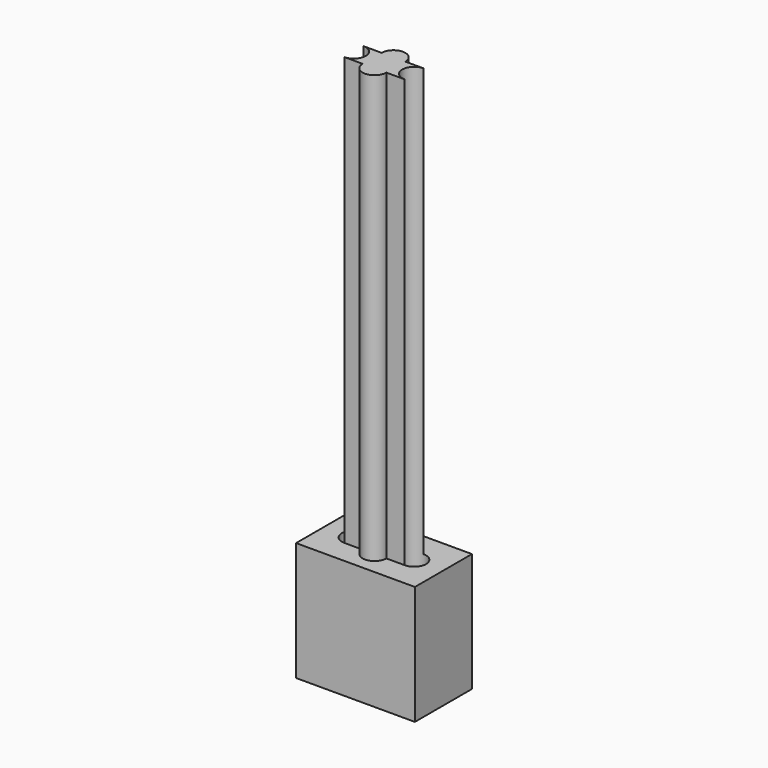
from build123d import *

# Parameters (mm, degrees)
F0_W     = 5
F0_H     = 3
F1_DEPTH = 5
F2_DEPTH = 23


with BuildPart() as f1:
    # F0 (on Top) → F1 (new body)
    with BuildSketch(Plane.XY):
        Rectangle(F0_W, F0_H)
        with BuildLine():
            ThreePointArc((-0.5, 0.5), (0, 1), (0.5, 0.5))
            Line((0.5, 0.5), (1.27, 0.5))
            ThreePointArc((1.27, 0.5), (1.6235533906, 0.3535533906), (1.77, 0))
            ThreePointArc((1.77, 0), (1.6235533906, -0.3535533906), (1.27, -0.5))
            Line((1.27, -0.5), (0.5, -0.5))
            ThreePointArc((0.5, -0.5), (0, -1), (-0.5, -0.5))
            Line((-0.5, -0.5), (-1.27, -0.5))
            ThreePointArc((-1.27, -0.5), (-1.77, 0), (-1.27, 0.5))
            Line((-1.27, 0.5), (-0.5, 0.5))
        make_face(mode=Mode.SUBTRACT)
        with BuildLine():
            Line((-0.5, 0.5), (0.5, 0.5))
            ThreePointArc((0.5, 0.5), (0, 1), (-0.5, 0.5))
        make_face()
        with BuildLine():
            ThreePointArc((-0.5, 0.5), (-0.3535533906, 0.1464466094), (0, 0))
            ThreePointArc((0, 0), (0.3535533906, 0.1464466094), (0.5, 0.5))
            Line((0.5, 0.5), (-0.5, 0.5))
        make_face()
        with BuildLine():
            ThreePointArc((0.5, -0.5), (0.3535533906, -0.1464466094), (0, 0))
            ThreePointArc((0, 0), (-0.3535533906, -0.1464466094), (-0.5, -0.5))
            Line((-0.5, -0.5), (0.5, -0.5))
        make_face()
        with BuildLine():
            ThreePointArc((-0.5, -0.5), (0, -1), (0.5, -0.5))
            Line((0.5, -0.5), (-0.5, -0.5))
        make_face()
        with BuildLine():
            ThreePointArc((-0.5, -0.5), (-0.3535533906, -0.1464466094), (0, 0))
            ThreePointArc((0, 0), (-0.3535533906, 0.1464466094), (-0.5, 0.5))
            Line((-0.5, 0.5), (-1.27, 0.5))
            ThreePointArc((-1.27, 0.5), (-0.9164466094, 0.3535533906), (-0.77, 0))
            ThreePointArc((-0.77, 0), (-0.9164466094, -0.3535533906), (-1.27, -0.5))
            Line((-1.27, -0.5), (-0.5, -0.5))
        make_face()
        with BuildLine():
            ThreePointArc((0.5, 0.5), (0.3535533906, 0.1464466094), (0, 0))
            Line((0, 0), (0.77, 0))
            ThreePointArc((0.77, 0), (0.9164466094, 0.3535533906), (1.27, 0.5))
            Line((1.27, 0.5), (0.5, 0.5))
        make_face()
        with BuildLine():
            Line((0.77, 0), (0, 0))
            ThreePointArc((0, 0), (0.3535533906, -0.1464466094), (0.5, -0.5))
            Line((0.5, -0.5), (1.27, -0.5))
            ThreePointArc((1.27, -0.5), (0.9164466094, -0.3535533906), (0.77, 0))
        make_face()
    extrude(amount=F1_DEPTH)

    # F0 (on Top) → F2 (join)
    with BuildSketch(Plane.XY):
        with BuildLine():
            ThreePointArc((-0.5, -0.5), (-0.3535533906, -0.1464466094), (0, 0))
            ThreePointArc((0, 0), (-0.3535533906, 0.1464466094), (-0.5, 0.5))
            Line((-0.5, 0.5), (-1.27, 0.5))
            ThreePointArc((-1.27, 0.5), (-0.9164466094, 0.3535533906), (-0.77, 0))
            ThreePointArc((-0.77, 0), (-0.9164466094, -0.3535533906), (-1.27, -0.5))
            Line((-1.27, -0.5), (-0.5, -0.5))
        make_face()
        with BuildLine():
            ThreePointArc((0.5, -0.5), (0.3535533906, -0.1464466094), (0, 0))
            ThreePointArc((0, 0), (-0.3535533906, -0.1464466094), (-0.5, -0.5))
            Line((-0.5, -0.5), (0.5, -0.5))
        make_face()
        with BuildLine():
            ThreePointArc((-0.5, -0.5), (0, -1), (0.5, -0.5))
            Line((0.5, -0.5), (-0.5, -0.5))
        make_face()
        with BuildLine():
            ThreePointArc((-0.5, 0.5), (-0.3535533906, 0.1464466094), (0, 0))
            ThreePointArc((0, 0), (0.3535533906, 0.1464466094), (0.5, 0.5))
            Line((0.5, 0.5), (-0.5, 0.5))
        make_face()
        with BuildLine():
            Line((-0.5, 0.5), (0.5, 0.5))
            ThreePointArc((0.5, 0.5), (0, 1), (-0.5, 0.5))
        make_face()
        with BuildLine():
            ThreePointArc((0.5, 0.5), (0.3535533906, 0.1464466094), (0, 0))
            Line((0, 0), (0.77, 0))
            ThreePointArc((0.77, 0), (0.9164466094, 0.3535533906), (1.27, 0.5))
            Line((1.27, 0.5), (0.5, 0.5))
        make_face()
        with BuildLine():
            Line((0.77, 0), (0, 0))
            ThreePointArc((0, 0), (0.3535533906, -0.1464466094), (0.5, -0.5))
            Line((0.5, -0.5), (1.27, -0.5))
            ThreePointArc((1.27, -0.5), (0.9164466094, -0.3535533906), (0.77, 0))
        make_face()
        with BuildLine():
            ThreePointArc((0.5, 0.5), (0.3535533906, 0.1464466094), (0, 0))
            Line((0, 0), (0.77, 0))
            ThreePointArc((0.77, 0), (0.9164466094, 0.3535533906), (1.27, 0.5))
            Line((1.27, 0.5), (0.5, 0.5))
        make_face()
        with BuildLine():
            Line((0.77, 0), (0, 0))
            ThreePointArc((0, 0), (0.3535533906, -0.1464466094), (0.5, -0.5))
            Line((0.5, -0.5), (1.27, -0.5))
            ThreePointArc((1.27, -0.5), (0.9164466094, -0.3535533906), (0.77, 0))
        make_face()
    extrude(amount=F2_DEPTH)


solid = f1.part
